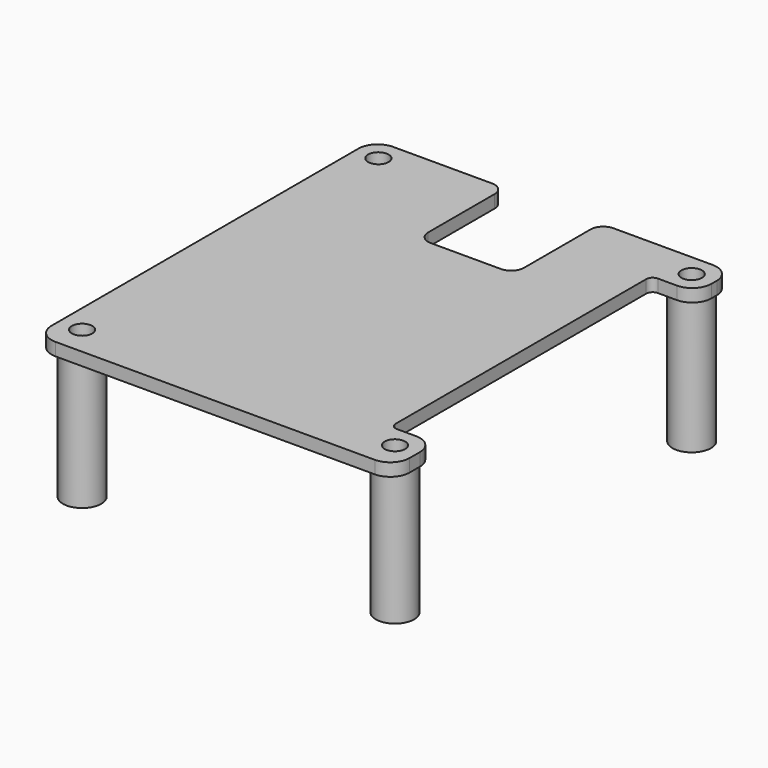
from build123d import *

# Parameters (mm, degrees)
PAD008_DEPTH       = 2
SKETCH037_R        = 3
PAD009_DEPTH       = 21
SKETCH038_R        = 1.6
POCKET003005_DEPTH = 30


with BuildPart() as part:
    # Sketch035 → Pad008 (new body)
    with BuildSketch(Plane.XY):
        with BuildLine():
            Line((24.97547, -25.036306), (-25.000607, -25.036306))
            ThreePointArc((-28.013759, -22.023154), (-27.131227, -24.153774), (-25.000607, -25.036306))
            Line((-28.013759, -22.023154), (-28.013759, 37.989404))
            ThreePointArc((-25.000624, 41.000002), (-27.131078, 40.119115), (-28.013759, 37.989404))
            Line((-25.000624, 41.000002), (-9.513229, 41.000002))
            ThreePointArc((-7.513229, 39.000002), (-8.099015, 40.414215), (-9.513229, 41.000002))
            Line((-7.513229, 26), (-7.513229, 39.000002))
            ThreePointArc((-7.513229, 26), (-6.927443, 24.585787), (-5.513229, 24))
            Line((5.476271, 24), (-5.513229, 24))
            ThreePointArc((5.476271, 24), (6.890485, 24.585787), (7.476271, 26))
            Line((7.476271, 39.000016), (7.476271, 26))
            ThreePointArc((9.476271, 41.000016), (8.062057, 40.41423), (7.476271, 39.000016))
            Line((9.476271, 41.000016), (24.999953, 41.000016))
            ThreePointArc((28, 38.041338), (27.106731, 40.135916), (24.999953, 41.000016))
            Line((28, 38.041338), (28, 37))
            ThreePointArc((25, 34), (27.12132, 34.87868), (28, 37))
            Line((25, 34), (22, 34))
            ThreePointArc((22, 34), (21.292893, 33.707107), (21, 33))
            Line((21, -16), (21, 33))
            ThreePointArc((21, -16), (21.292893, -16.707107), (22, -17))
            Line((25, -17), (22, -17))
            ThreePointArc((27.999984, -19.999984), (27.121309, -17.878675), (25, -17))
            Line((27.999984, -22.011792), (27.999984, -19.999984))
            ThreePointArc((24.97547, -25.036306), (27.114124, -24.150446), (27.999984, -22.011792))
        make_face()
    extrude(amount=-PAD008_DEPTH)

    # Sketch037 → Pad009 (join)
    with BuildSketch(Plane(origin=(0, 0, -2), x_dir=(1, 0, 0), z_dir=(0, 0, -1))):
        with Locations((-24.440964, 20.497406)):
            Circle(SKETCH037_R)
        with Locations((24.491911, 20.496445)):
            Circle(SKETCH037_R)
        with Locations((-24.511511, -37.516029)):
            Circle(SKETCH037_R)
        with Locations((24.504074, -37.505135)):
            Circle(SKETCH037_R)
    extrude(amount=PAD009_DEPTH)

    # Sketch038 (on Face31 of Pad009) → Pocket003005 (cut)
    with BuildSketch(Plane(origin=(0, 0, -23), x_dir=(1, 0, 0), z_dir=(0, 0, -1))):
        with Locations((-24.440964, 20.497406)):
            Circle(SKETCH038_R)
        with Locations((24.491911, 20.496445)):
            Circle(SKETCH038_R)
        with Locations((-24.511511, -37.516029)):
            Circle(SKETCH038_R)
        with Locations((24.504074, -37.505135)):
            Circle(SKETCH038_R)
    extrude(amount=-POCKET003005_DEPTH, mode=Mode.SUBTRACT)


with BuildPart() as part_1:
    # Body007 placement: moved
    add(part.part.moved(Location((0, 0, 23))))


solid = part_1.part
